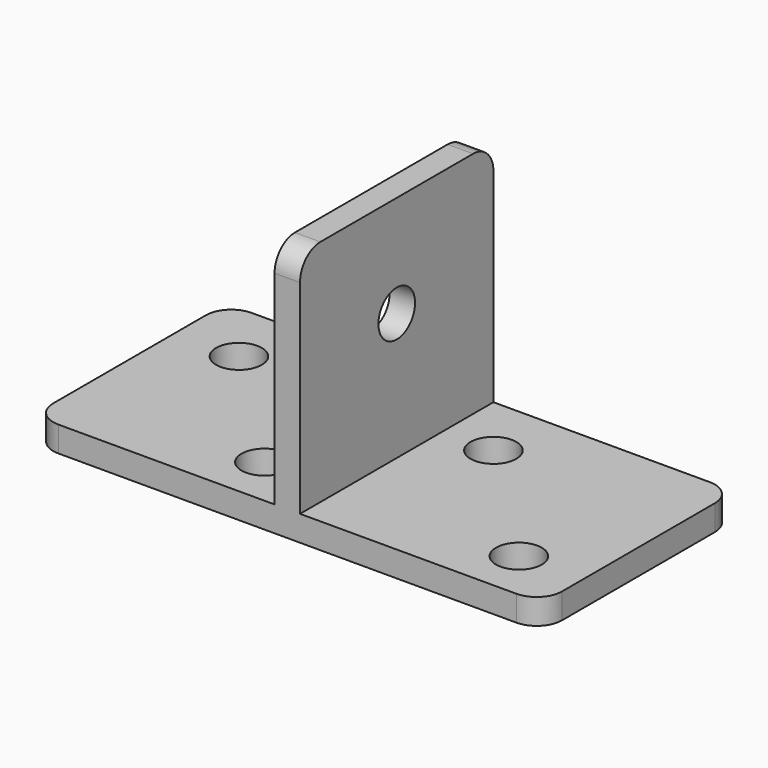
from build123d import *

# Parameters (mm, degrees)
F1_DEPTH = 47.5
F2_R     = 9
F3_DEPTH = 25
F4_R     = 9
F5_DEPTH = 25
F6_R     = 10


with BuildPart() as f1:
    # F0 (on Front) → F1 (new body, symmetric)
    with BuildSketch(Plane.XZ):
        Polygon((-100, 0), (0, 0), (100, 0), (100, 10), (5, 10), (5, 100), (0, 100), (-5, 100), (-5, 10), (-100, 10), align=None)
    extrude(amount=F1_DEPTH, both=True)

    # F2 (on face) → F3 (cut)
    with BuildSketch(Plane.XY.offset(10)):
        with Locations((75, -27.5)):
            Circle(F2_R)
        with Locations((25, 22.5)):
            Circle(F2_R)
        with Locations((-25, -27.5)):
            Circle(F2_R)
        with Locations((-75, 22.5)):
            Circle(F2_R)
    extrude(amount=-F3_DEPTH, mode=Mode.SUBTRACT)

    # F4 (on face) → F5 (cut)
    with BuildSketch(Plane(origin=(-5, 0, 0), x_dir=(0, -1, 0), z_dir=(-1, 0, 0))):
        with Locations((0, 60)):
            Circle(F4_R)
    extrude(amount=-F5_DEPTH, mode=Mode.SUBTRACT)

    # F6
    f6_edges = [f1.edges().sort_by_distance(p)[0] for p in [
        (0, -47.5, 100),
        (0, 47.5, 100),
        (-100, 47.5, 5),
        (-100, -47.5, 5),
        (100, 47.5, 5),
        (100, -47.5, 5),
    ]]
    fillet(f6_edges, radius=F6_R)


solid = f1.part
